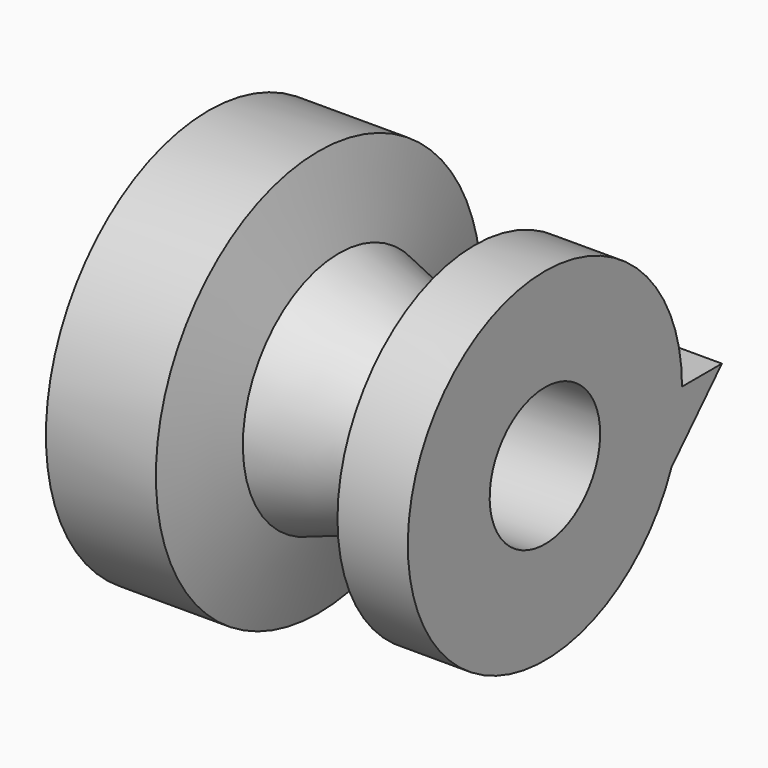
from build123d import *

# Parameters (mm, degrees)
F4_DEPTH = 10.668


with BuildPart() as f2:
    # F0 (on Front) → F2 (revolve)
    with BuildSketch(Plane.XZ):
        Polygon((-45.128793, 24.239482), (-48.873104, 10.641724), (0, 10.641724), (0, 26.40724), (-10.838794, 26.40724), (-17.145, 13.597758), (-31.728104, 18.524483), (-34.881208, 31.333964), (-51.829137, 31.333964), align=None)
    revolve(axis=Axis((-26.604312, 0, 0), (1, 0, 0)))

    # F3 (on Right) → F4 (join)
    with BuildSketch(Plane.YZ):
        Polygon((34.092929, 0), (25.816033, 0), (24.436556, -10.050518), align=None)
    extrude(amount=-F4_DEPTH)


solid = f2.part
